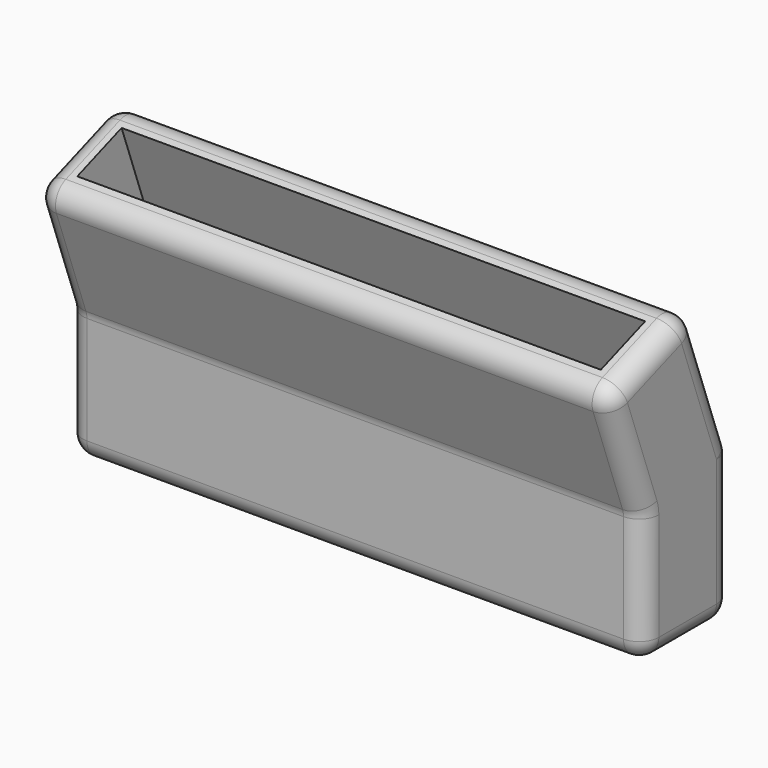
from build123d import *

# Parameters (mm, degrees)
PAD008_DEPTH    = 44
SKETCH009_W     = 9
SKETCH009_H     = 80
POCKET_DEPTH    = 15
SKETCH011_W     = 9
SKETCH011_H     = 80
POCKET001_DEPTH = 15
FILLET006_R     = 3


with BuildPart() as part:
    # Sketch007 → Pad008 (new body, symmetric)
    with BuildSketch(Plane.YZ):
        Polygon((122.8253676514, 151.0712742396), (139.8253676514, 151.0712742396), (139.8253676514, 174.0688329116), (131.9597393383, 195.6794690919), (115.9849647849, 189.8651266553), (122.8253676514, 171.0712742396), align=None)
    extrude(amount=PAD008_DEPTH, both=True)

    # Sketch009 (on Face4 of Pad008) → Pocket (cut)
    with BuildSketch(Plane(origin=(0, -47.4538119498, 130.378276799), x_dir=(0, -0.9396926208, -0.3420201433), z_dir=(0, -0.3420201433, 0.9396926208))):
        with Locations((-182.4279133617, 0)):
            Rectangle(SKETCH009_W, SKETCH009_H)
    extrude(amount=-POCKET_DEPTH, mode=Mode.SUBTRACT)

    # Sketch011 (on Face1 of Pocket) → Pocket001 (cut)
    with BuildSketch(Plane.YX.offset(-151.0712742396)):
        with Locations((131.3253676514, 0)):
            Rectangle(SKETCH011_W, SKETCH011_H)
    extrude(amount=-POCKET001_DEPTH, mode=Mode.SUBTRACT)

    # Fillet006
    fillet006_edges = [part.edges().sort_by_distance(p)[0] for p in [
        (0, 139.825368, 174.068833),
        (0, 122.825368, 171.071274),
        (0, 115.984965, 189.865127),
        (44, 123.972352, 192.772298),
        (0, 131.959739, 195.679469),
        (-44, 123.972352, 192.772298),
        (-44, 131.325368, 151.071274),
        (0, 122.825368, 151.071274),
        (0, 139.825368, 151.071274),
        (44, 131.325368, 151.071274),
        (-44, 135.892553, 184.874151),
        (-44, 139.825368, 162.570054),
        (-44, 119.405166, 180.4682),
        (-44, 122.825368, 161.071274),
        (44, 119.405166, 180.4682),
        (44, 122.825368, 161.071274),
        (44, 135.892553, 184.874151),
        (44, 139.825368, 162.570054),
    ]]
    fillet(fillet006_edges, radius=FILLET006_R)


with BuildPart() as part_1:
    # Body011 placement: moved
    add(part.part.moved(Location((0, -6, -3))))


solid = part_1.part
